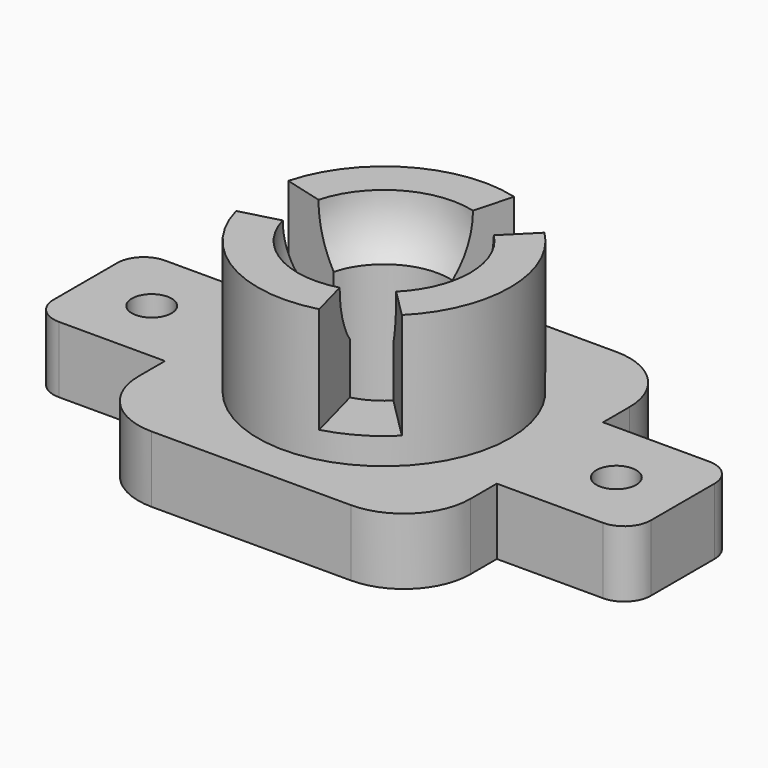
from build123d import *

# Parameters (mm, degrees)
F1_DEPTH  = 5
F3_D      = 3
F4_D      = 3
F2_R      = 9.5
F2_R_2    = 6.5
F5_DEPTH  = 10
F7_DEPTH  = 8
F9_ANGLE  = 180
F10_R     = 5
F11_DEPTH = 25


with BuildPart() as f1:
    # F0 (on Top) → F1 (new body)
    with BuildSketch(Plane.XY):
        with BuildLine():
            Line((-12.5, -5), (-12.5, 5))
            Line((-12.5, 5), (-20.5, 5))
            ThreePointArc((-20.5, 5), (-21.9142135624, 4.4142135624), (-22.5, 3))
            Line((-22.5, 3), (-22.5, -3))
            ThreePointArc((-22.5, -3), (-21.9142135624, -4.4142135624), (-20.5, -5))
            Line((-20.5, -5), (-12.5, -5))
        make_face()
        with BuildLine():
            Line((0, 12.5), (-7.5, 12.5))
            ThreePointArc((-7.5, 12.5), (-11.0355339059, 11.0355339059), (-12.5, 7.5))
            Line((-12.5, 7.5), (-12.5, 5))
            Line((-12.5, 5), (-12.5, -5))
            Line((-12.5, -5), (-12.5, -7.5))
            ThreePointArc((-12.5, -7.5), (-11.0355339059, -11.0355339059), (-7.5, -12.5))
            Line((-7.5, -12.5), (0, -12.5))
            Line((0, -12.5), (7.5, -12.5))
            ThreePointArc((7.5, -12.5), (11.0355339059, -11.0355339059), (12.5, -7.5))
            Line((12.5, -7.5), (12.5, -5))
            Line((12.5, -5), (12.5, 5))
            Line((12.5, 5), (12.5, 7.5))
            ThreePointArc((12.5, 7.5), (11.0355339059, 11.0355339059), (7.5, 12.5))
            Line((7.5, 12.5), (0, 12.5))
        make_face()
        with BuildLine():
            Line((20.5, 5), (12.5, 5))
            Line((12.5, 5), (12.5, -5))
            Line((12.5, -5), (20.5, -5))
            ThreePointArc((20.5, -5), (21.9142135624, -4.4142135624), (22.5, -3))
            Line((22.5, -3), (22.5, 3))
            ThreePointArc((22.5, 3), (21.9142135624, 4.4142135624), (20.5, 5))
        make_face()
    extrude(amount=F1_DEPTH)

    # F3 (through all)
    with Locations(Plane.XY.offset(5)):
        with Locations((-17.5, 0)):
            Hole(F3_D / 2)

    # F4 (through all)
    with Locations(Plane.XY.offset(5)):
        with Locations((17.5, 0)):
            Hole(F4_D / 2)

    # F2 (on face) → F5 (join)
    with BuildSketch(Plane.XY.offset(5)):
        Circle(F2_R)
        Circle(F2_R_2, mode=Mode.SUBTRACT)
        Circle(F2_R_2)
    extrude(amount=F5_DEPTH)

    # F6 (on face) → F7 (cut)
    with BuildSketch(Plane.XY.offset(15)):
        with BuildLine():
            ThreePointArc((-4.8296291314, -1.2940952255), (-5, 0), (-4.8296291314, 1.2940952255))
            Line((-4.8296291314, 1.2940952255), (-9.1762953497, 2.4587809285))
            ThreePointArc((-9.1762953497, 2.4587809285), (-9.5, 0), (-9.1762953497, -2.4587809285))
            Line((-9.1762953497, -2.4587809285), (-4.8296291314, -1.2940952255))
        make_face()
        with BuildLine():
            Line((1.2940952255, -4.8296291314), (2.4587809285, -9.1762953497))
            ThreePointArc((2.4587809285, -9.1762953497), (4.75, -8.227241336), (6.7175144213, -6.7175144213))
            Line((6.7175144213, -6.7175144213), (3.5355339059, -3.5355339059))
            ThreePointArc((3.5355339059, -3.5355339059), (2.5, -4.3301270189), (1.2940952255, -4.8296291314))
        make_face()
        with BuildLine():
            Line((3.5355339059, 3.5355339059), (6.7175144213, 6.7175144213))
            ThreePointArc((6.7175144213, 6.7175144213), (4.75, 8.227241336), (2.4587809285, 9.1762953497))
            Line((2.4587809285, 9.1762953497), (1.2940952255, 4.8296291314))
            ThreePointArc((1.2940952255, 4.8296291314), (2.5, 4.3301270189), (3.5355339059, 3.5355339059))
        make_face()
    extrude(amount=-F7_DEPTH, mode=Mode.SUBTRACT)

    # F8 (on face) → F9 (revolve, cut)
    with BuildSketch(Plane.XY.offset(15)):
        with BuildLine():
            Line((-6.5, 0), (-5, 0))
            ThreePointArc((-5, 0), (-4.9572243069, 0.6526309611), (-4.8296291314, 1.2940952255))
            Line((-4.8296291314, 1.2940952255), (-6.2785178709, 1.6823237932))
            ThreePointArc((-6.2785178709, 1.6823237932), (-6.4443915989, 0.8484202494), (-6.5, 0))
        make_face()
        with BuildLine():
            Line((-5, 0), (6.5, 0))
            ThreePointArc((6.5, 0), (6.0052169613, 2.4874423104), (4.5961940777, 4.5961940777))
            Line((4.5961940777, 4.5961940777), (3.5355339059, 3.5355339059))
            ThreePointArc((3.5355339059, 3.5355339059), (2.5, 4.3301270189), (1.2940952255, 4.8296291314))
            Line((1.2940952255, 4.8296291314), (1.6823237932, 6.2785178709))
            ThreePointArc((1.6823237932, 6.2785178709), (-3.25, 5.6291651246), (-6.2785178709, 1.6823237932))
            Line((-6.2785178709, 1.6823237932), (-4.8296291314, 1.2940952255))
            ThreePointArc((-4.8296291314, 1.2940952255), (-4.9572243069, 0.6526309611), (-5, 0))
        make_face()
        with BuildLine():
            Line((3.5355339059, 3.5355339059), (4.5961940777, 4.5961940777))
            ThreePointArc((4.5961940777, 4.5961940777), (3.25, 5.6291651246), (1.6823237932, 6.2785178709))
            Line((1.6823237932, 6.2785178709), (1.2940952255, 4.8296291314))
            ThreePointArc((1.2940952255, 4.8296291314), (2.5, 4.3301270189), (3.5355339059, 3.5355339059))
        make_face()
    revolve(axis=Axis((0, 0, 15), (-1, 0, 0)), revolution_arc=F9_ANGLE, mode=Mode.SUBTRACT)

    # F10 (on face) → F11 (cut)
    with BuildSketch(Plane(origin=(0, 0, 0), x_dir=(1, 0, 0), z_dir=(0, 0, -1))):
        Circle(F10_R)
    extrude(amount=-F11_DEPTH, mode=Mode.SUBTRACT)


solid = f1.part
